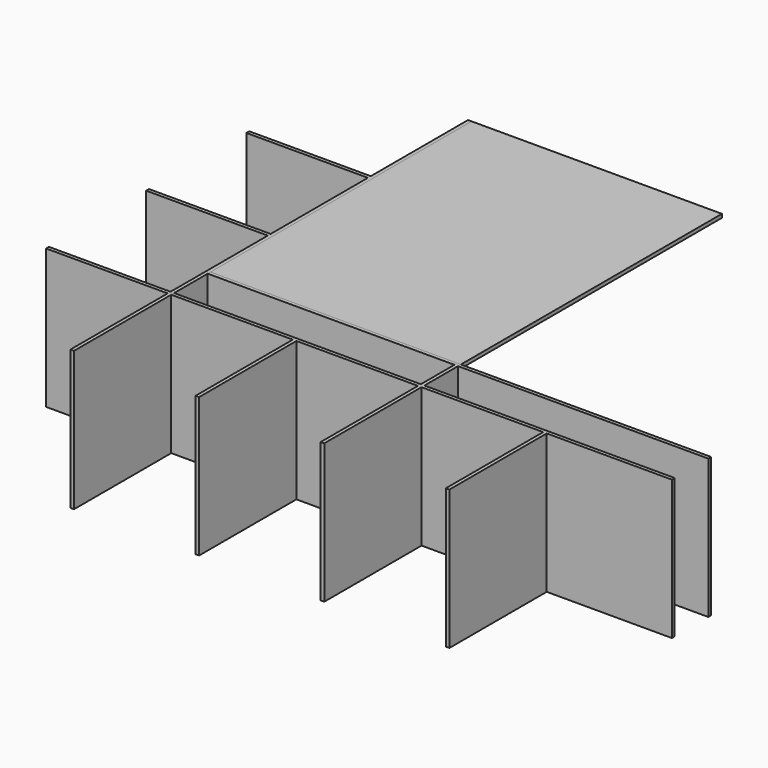
from build123d import *

# Parameters (mm, degrees)
F0_W     = 10
F0_H     = 1390
F2_DEPTH = 390
F1_W     = 340
F1_H     = 10
F3_W     = 10
F3_H     = 117.5
F3_H_2   = 340
F4_DEPTH = 390
F5_W     = 700
F5_H     = 912.5
F6_DEPTH = 10


with BuildPart() as f2:
    # F0 (on Top) → F2 (new body)
    with BuildSketch(Plane.XY):
        with Locations((-79.2238954455, 690.137084249)):
            Rectangle(F0_W, F0_H)
    extrude(amount=F2_DEPTH)


with BuildPart() as f2b:
    # F1 (on face) → F2, piece 2 (new body)
    with BuildSketch(Plane.XY):
        with Locations((-254.2238954455, 1040.137084249)):
            Rectangle(F1_W, F1_H)
        with Locations((-254.2238954455, 690.137084249)):
            Rectangle(F1_W, F1_H)
        with Locations((-254.2238954455, 340.137084249)):
            Rectangle(F1_W, F1_H)
        Polygon((-84.2238954455, 1385.137084249), (-84.2238954455, 1045.137084249), (-84.2238954455, 1035.137084249), (-84.2238954455, 695.137084249), (-84.2238954455, 685.137084249), (-84.2238954455, 345.137084249), (-84.2238954455, 335.137084249), (-84.2238954455, -4.862915751), (-74.2238954455, -4.862915751), (-74.2238954455, 1385.137084249), align=None)
    extrude(amount=F2_DEPTH)


with BuildPart() as f4:
    # F3 (on face) → F4 (new body, through all)
    with BuildSketch(Plane.XY.offset(390)):
        Polygon((615.7761045545, 345.137084249), (-74.2238954455, 345.137084249), (-74.2238954455, 335.137084249), (265.7761045545, 335.137084249), (275.7761045545, 335.137084249), (615.7761045545, 335.137084249), (625.7761045545, 335.137084249), (965.7761045545, 335.137084249), (975.7761045545, 335.137084249), (1325.7761045545, 335.137084249), (1325.7761045545, 345.137084249), (625.7761045545, 345.137084249), align=None)
        with Locations((620.7761045545, 403.887084249)):
            Rectangle(F3_W, F3_H)
        Polygon((-74.2238954455, 462.637084249), (615.7761045545, 462.637084249), (625.7761045545, 462.637084249), (1325.7761045545, 462.637084249), (1325.7761045545, 472.637084249), (-74.2238954455, 472.637084249), align=None)
        with Locations((270.7761045545, 165.137084249)):
            Rectangle(F3_W, F3_H_2)
        with Locations((620.7761045545, 165.137084249)):
            Rectangle(F3_W, F3_H_2)
        with Locations((970.7761045545, 165.137084249)):
            Rectangle(F3_W, F3_H_2)
    extrude(amount=-F4_DEPTH)


with BuildPart() as f6:
    # F5 (on face) → F6 (new body)
    with BuildSketch(Plane.XY.offset(390)):
        with Locations((275.7761045545, 928.887084249)):
            Rectangle(F5_W, F5_H)
    extrude(amount=-F6_DEPTH)


solid = Compound([f2b.part, f4.part, f6.part])
